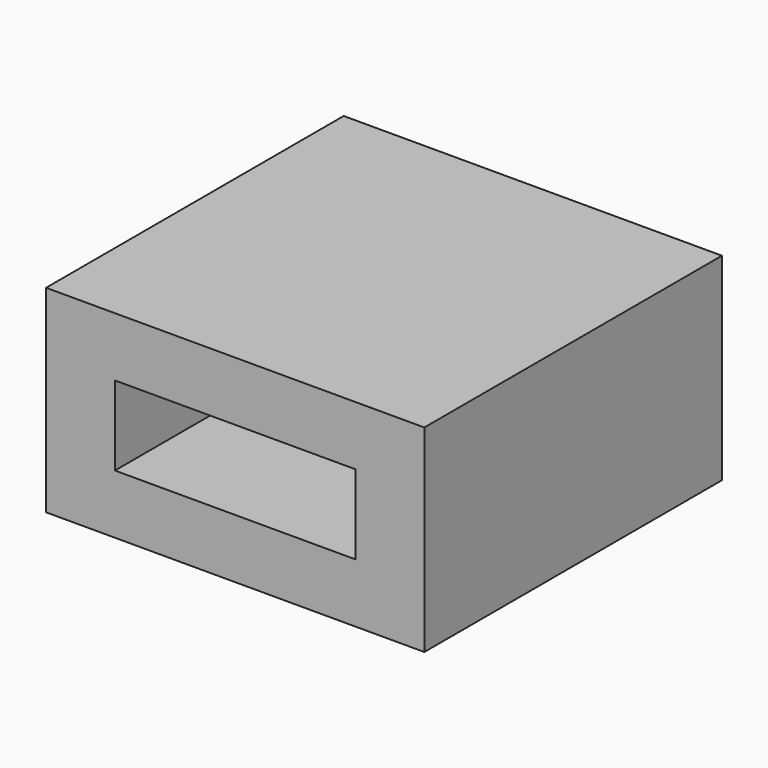
from build123d import *

# Parameters (mm, degrees)
F0_W     = 90.384428855
F0_H     = 47.2447103821
F0_W_2   = 57.4698699638
F0_H_2   = 18.9575916156
F1_DEPTH = 25.4
F2_DEPTH = 25.4
F3_DEPTH = 12.7


with BuildPart() as f1:
    # F0 (on Front) → F1 (new body, symmetric)
    with BuildSketch(Plane.XZ):
        with Locations((-21.9803575892, 6.2321212608)):
            Rectangle(F0_W, F0_H)
        with Locations((-21.9803575892, 6.2321212608)):
            Rectangle(F0_W_2, F0_H_2, mode=Mode.SUBTRACT)
    extrude(amount=F1_DEPTH, both=True)

    # F2 (add): a face of the model
    f2_faces = [f1.faces().sort_by_distance(p)[0] for p in [
        (-21.9803575892, -25.4, 28.8346035363),
    ]]
    extrude(f2_faces, amount=F2_DEPTH)

    # F3 (add): a face of the model
    f3_faces = [f1.faces().sort_by_distance(p)[0] for p in [
        (-21.9803575892, -50.8, 28.8346035363),
    ]]
    extrude(f3_faces, amount=F3_DEPTH)


solid = f1.part
